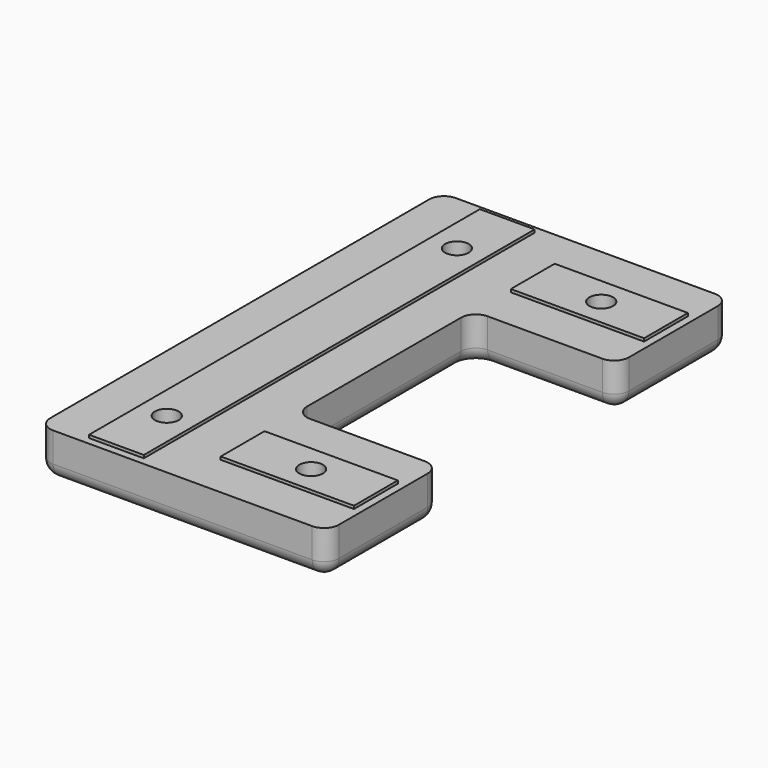
from build123d import *

# Parameters (mm, degrees)
PAD_DEPTH       = 6
SKETCH002_W     = 7.4
SKETCH002_H     = 66
SKETCH002_W_2   = 18
SKETCH002_H_2   = 7.4
PAD001_DEPTH    = 0.4
SKETCH003_R     = 1.6
POCKET_DEPTH    = 6.401
SKETCH004_R     = 3
POCKET001_DEPTH = 1
SKETCH005_R     = 4
PAD002_DEPTH    = 0.2
CHAMFER_SIZE    = 0.4
FILLET_R        = 2


with BuildPart() as part:
    # Sketch → Pad (new body)
    with BuildSketch(Plane.XY):
        Polygon((-9.75, 34), (-9.75, -34), (29.25, -34), (29.25, -15), (9.75, -15), (9.75, 15), (29.25, 15), (29.25, 34), (9.75, 34), align=None)
    extrude(amount=PAD_DEPTH)

    # Sketch002 → Pad001 (new body)
    with BuildSketch(Plane.XY.offset(6)):
        Rectangle(SKETCH002_W, SKETCH002_H)
        with Locations((19.25, 24.5)):
            Rectangle(SKETCH002_W_2, SKETCH002_H_2)
        with Locations((19.25, -24.5)):
            Rectangle(SKETCH002_W_2, SKETCH002_H_2)
    extrude(amount=PAD001_DEPTH)

    # Sketch003 → Pocket (cut, through all)
    with BuildSketch(Plane(origin=(0, 0, 0), x_dir=(1, 0, 0), z_dir=(0, 0, -1))):
        with Locations((0, 24.5)):
            Circle(SKETCH003_R)
        with Locations((19.5, 24.5)):
            Circle(SKETCH003_R)
        with Locations((0, -24.5)):
            Circle(SKETCH003_R)
        with Locations((19.5, -24.5)):
            Circle(SKETCH003_R)
    extrude(amount=-POCKET_DEPTH, mode=Mode.SUBTRACT)

    # Sketch004 → Pocket001 (cut)
    with BuildSketch(Plane(origin=(0, 0, 0), x_dir=(1, 0, 0), z_dir=(0, 0, -1))):
        with Locations((0, 24.5)):
            Circle(SKETCH004_R)
        with Locations((19.5, 24.5)):
            Circle(SKETCH004_R)
        with Locations((0, -24.5)):
            Circle(SKETCH004_R)
        with Locations((19.5, -24.5)):
            Circle(SKETCH004_R)
    extrude(amount=-POCKET001_DEPTH, mode=Mode.SUBTRACT)

    # Sketch005 → Pad002 (new body)
    with BuildSketch(Plane(origin=(0, 0, 1), x_dir=(1, 0, 0), z_dir=(0, 0, -1))):
        with Locations((0, 24.5)):
            Circle(SKETCH005_R)
        with Locations((19.5, 24.5)):
            Circle(SKETCH005_R)
        with Locations((0, -24.5)):
            Circle(SKETCH005_R)
        with Locations((19.5, -24.5)):
            Circle(SKETCH005_R)
    extrude(amount=-PAD002_DEPTH)

    # Chamfer
    chamfer_edges = [part.edges().sort_by_distance(p)[0] for p in [
        (16.5, -24.5, 0),
        (16.5, 24.5, 0),
        (-3, -24.5, 0),
        (-3, 24.5, 0),
    ]]
    chamfer(chamfer_edges, length=CHAMFER_SIZE)

    # Fillet
    fillet_edges = [part.edges().sort_by_distance(p)[0] for p in [
        (9.75, 15, 3),
        (9.75, 0, 0),
        (19.5, 15, 0),
        (9.75, -15, 3),
        (19.5, -15, 0),
        (29.25, -15, 3),
        (29.25, 15, 3),
        (29.25, 24.5, 0),
        (29.25, -24.5, 0),
        (29.25, -34, 3),
        (9.75, -34, 0),
        (29.25, 34, 3),
        (9.75, 34, 0),
        (-9.75, 34, 3),
        (-9.75, 0, 0),
        (-9.75, -34, 3),
    ]]
    fillet(fillet_edges, radius=FILLET_R)


solid = part.part
